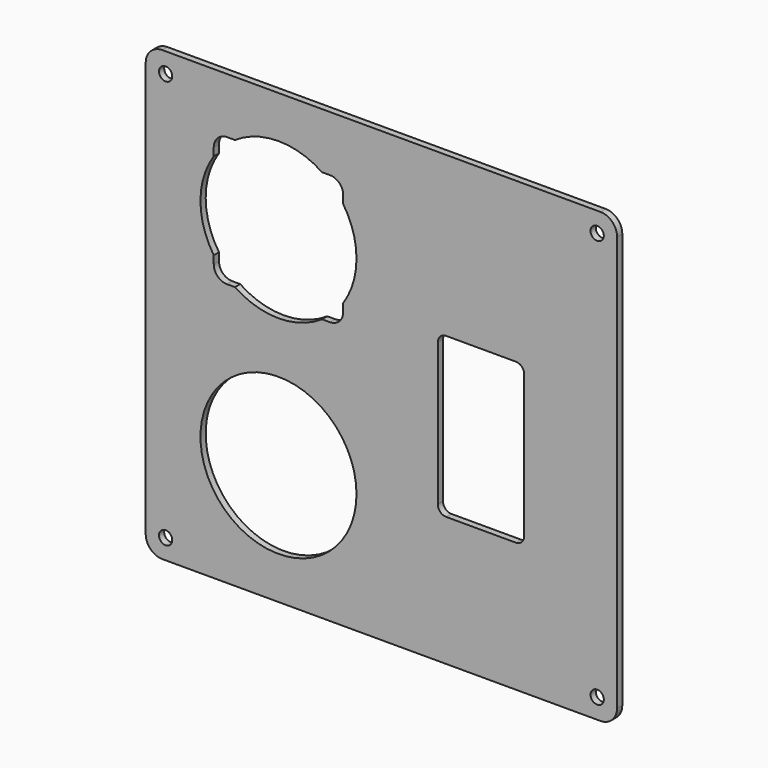
from build123d import *

# Parameters (mm, degrees)
F1_DEPTH = 2.5
F3_DEPTH = 25.4
F4_R     = 29.845
F5_DEPTH = 25.4
F6_R     = 2.54
F7_DEPTH = 25.4
F8_R     = 5.08


with BuildPart() as f1:
    # F0 (on Front) → F1 (new body)
    with BuildSketch(Plane.XZ):
        with BuildLine():
            ThreePointArc((90.17, 79.375), (88.3101280605, 83.8651280605), (83.82, 85.725))
            Line((83.82, 85.725), (-83.82, 85.725))
            ThreePointArc((-83.82, 85.725), (-88.3101280605, 83.8651280605), (-90.17, 79.375))
            Line((-90.17, 79.375), (-90.17, -79.375))
            ThreePointArc((-90.17, -79.375), (-88.3101280605, -83.8651280605), (-83.82, -85.725))
            Line((-83.82, -85.725), (83.82, -85.725))
            ThreePointArc((83.82, -85.725), (88.3101280605, -83.8651280605), (90.17, -79.375))
            Line((90.17, -79.375), (90.17, 79.375))
        make_face()
    extrude(amount=F1_DEPTH)

    # F2 (on face) → F3 (cut)
    with BuildSketch(Plane.XZ.offset(2.5)):
        with BuildLine():
            Line((51.435, 24.765), (24.765, 24.765))
            ThreePointArc((24.765, 24.765), (22.5199359697, 23.8350640303), (21.59, 21.59))
            Line((21.59, 21.59), (21.59, -33.02))
            ThreePointArc((21.59, -33.02), (22.5199359697, -35.2650640303), (24.765, -36.195))
            Line((24.765, -36.195), (51.435, -36.195))
            ThreePointArc((51.435, -36.195), (53.6800640303, -35.2650640303), (54.61, -33.02))
            Line((54.61, -33.02), (54.61, 21.59))
            ThreePointArc((54.61, 21.59), (53.6800640303, 23.8350640303), (51.435, 24.765))
        make_face()
    extrude(amount=-F3_DEPTH, mode=Mode.SUBTRACT)

    # F4 (on face) → F5 (cut)
    with BuildSketch(Plane.XZ.offset(2.5)):
        with BuildLine():
            ThreePointArc((-14.605, 23.0316061483), (-10.8232361729, 30.9808186575), (-9.525, 39.6875))
            ThreePointArc((-9.525, 39.6875), (-10.8232361729, 48.3941813425), (-14.605, 56.3433938517))
            Line((-14.605, 56.3433938517), (-14.605, 23.0316061483))
        make_face()
        with BuildLine():
            Line((-14.605, 23.0316061483), (-14.605, 56.3433938517))
            ThreePointArc((-14.605, 56.3433938517), (-18.2663981155, 60.7911018845), (-22.7141061483, 64.4525))
            Line((-22.7141061483, 64.4525), (-56.0258938517, 64.4525))
            ThreePointArc((-56.0258938517, 64.4525), (-60.4736018845, 60.7911018845), (-64.135, 56.3433938517))
            Line((-64.135, 56.3433938517), (-64.135, 23.0316061483))
            ThreePointArc((-64.135, 23.0316061483), (-60.4736018845, 18.5838981155), (-56.0258938517, 14.9225))
            Line((-56.0258938517, 14.9225), (-22.7141061483, 14.9225))
            ThreePointArc((-22.7141061483, 14.9225), (-18.2663981155, 18.5838981155), (-14.605, 23.0316061483))
        make_face()
        with BuildLine():
            ThreePointArc((-22.7141061483, 64.4525), (-18.2663981155, 60.7911018845), (-14.605, 56.3433938517))
            Line((-14.605, 56.3433938517), (-14.605, 64.4525))
            Line((-14.605, 64.4525), (-22.7141061483, 64.4525))
        make_face()
        with BuildLine():
            Line((-14.605, 14.9225), (-14.605, 23.0316061483))
            ThreePointArc((-14.605, 23.0316061483), (-18.2663981155, 18.5838981155), (-22.7141061483, 14.9225))
            Line((-22.7141061483, 14.9225), (-14.605, 14.9225))
        make_face()
        with BuildLine():
            Line((-56.0258938517, 64.4525), (-22.7141061483, 64.4525))
            ThreePointArc((-22.7141061483, 64.4525), (-39.37, 69.5325), (-56.0258938517, 64.4525))
        make_face()
        with BuildLine():
            ThreePointArc((-56.0258938517, 14.9225), (-39.37, 9.8425), (-22.7141061483, 14.9225))
            Line((-22.7141061483, 14.9225), (-56.0258938517, 14.9225))
        make_face()
        with BuildLine():
            ThreePointArc((-64.135, 56.3433938517), (-60.4736018845, 60.7911018845), (-56.0258938517, 64.4525))
            Line((-56.0258938517, 64.4525), (-64.135, 64.4525))
            Line((-64.135, 64.4525), (-64.135, 56.3433938517))
        make_face()
        with BuildLine():
            Line((-64.135, 14.9225), (-56.0258938517, 14.9225))
            ThreePointArc((-56.0258938517, 14.9225), (-60.4736018845, 18.5838981155), (-64.135, 23.0316061483))
            Line((-64.135, 23.0316061483), (-64.135, 14.9225))
        make_face()
        with BuildLine():
            Line((-64.135, 23.0316061483), (-64.135, 56.3433938517))
            ThreePointArc((-64.135, 56.3433938517), (-69.215, 39.6875), (-64.135, 23.0316061483))
        make_face()
        with Locations((-39.37, -39.6875)):
            Circle(F4_R)
    extrude(amount=-F5_DEPTH, mode=Mode.SUBTRACT)

    # F6 (on face) → F7 (cut)
    with BuildSketch(Plane.XZ.offset(2.5)):
        with Locations((-82.55, 78.105)):
            Circle(F6_R)
        with Locations((82.55, 78.105)):
            Circle(F6_R)
        with Locations((82.55, -78.105)):
            Circle(F6_R)
        with Locations((-82.55, -78.105)):
            Circle(F6_R)
    extrude(amount=-F7_DEPTH, mode=Mode.SUBTRACT)

    # F8
    f8_edges = [f1.edges().sort_by_distance(p)[0] for p in [
        (-64.135, -1.25, 14.9225),
        (-14.605, -1.25, 14.9225),
        (-14.605, -1.25, 64.4525),
        (-64.135, -1.25, 64.4525),
    ]]
    fillet(f8_edges, radius=F8_R)


solid = f1.part
